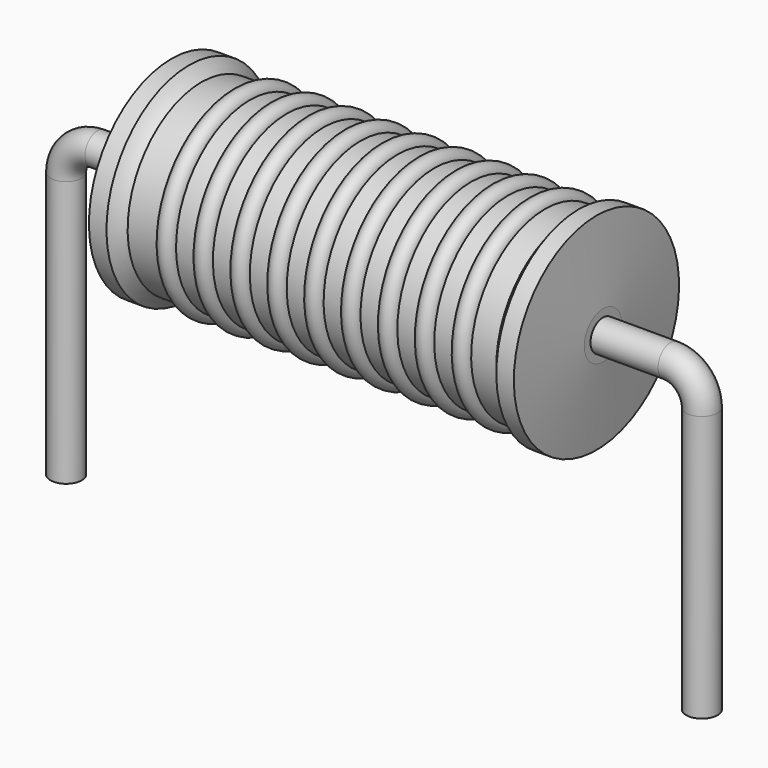
from build123d import *

# Parameters (mm, degrees)
SKETCH_R = 0.25


with BuildPart() as sweep_body:
    # Sweep: sweep along a path in Sketch001
    with BuildLine(Plane.XZ) as sweep_path:
        Line((0, -3), (0, 1.25))
        ThreePointArc((0, 1.25), (0.146443, 1.60355), (0.49999, 1.75))
        Line((0.49999, 1.75), (9.66, 1.75))
        ThreePointArc((9.66, 1.75), (10.013553, 1.603553), (10.16, 1.25))
        Line((10.16, 1.25), (10.16, -3))
    # Sketch → Sweep (sweep)
    with BuildSketch(Plane.XY.offset(-2)):
        Circle(SKETCH_R)
    sweep(path=sweep_path.line)


with BuildPart() as revolution:
    # Sketch002 → Revolution (revolve)
    with BuildSketch(Plane.XZ):
        with BuildLine():
            Line((1.685, 3.4), (1.965, 3.4))
            ThreePointArc((1.965, 3.4), (2.055554, 3.302943), (2.163, 3.225))
            Line((2.163, 3.225), (8.055, 3.225))
            ThreePointArc((8.055, 3.225), (8.134018, 3.305286), (8.195, 3.4))
            Line((8.195, 3.4), (8.475, 3.4))
            ThreePointArc((8.58, 2.125), (8.52839, 2.762573), (8.475, 3.4))
            Line((8.58, 1.75), (8.58, 2.125))
            Line((1.58, 1.75), (8.58, 1.75))
            Line((1.58, 1.75), (1.58, 2.125))
            ThreePointArc((1.685, 3.4), (1.63161, 2.762573), (1.58, 2.125))
        make_face()
    revolve(axis=Axis((1.58, 0, 1.75), (1, 0, 0)))


with BuildPart() as obj1:
    # Sketch003 → Revolution001 (revolve)
    with BuildSketch(Plane.XZ):
        with BuildLine():
            ThreePointArc((2.939474, 3.197), (2.792105, 3.344368), (2.644737, 3.197))
            Line((2.35, 3.197), (2.644737, 3.197))
            Line((2.35, 3.197), (2.35, 2.867))
            Line((2.35, 2.867), (7.95, 2.867))
            Line((7.95, 2.867), (7.95, 3.197))
            Line((7.655263, 3.197), (7.95, 3.197))
            ThreePointArc((7.655263, 3.197), (7.507895, 3.344368), (7.360526, 3.197))
            Line((7.065789, 3.197), (7.360526, 3.197))
            ThreePointArc((7.065789, 3.197), (6.918421, 3.344368), (6.771053, 3.197))
            Line((6.476316, 3.197), (6.771053, 3.197))
            ThreePointArc((6.476316, 3.197), (6.328947, 3.344368), (6.181579, 3.197))
            Line((5.886842, 3.197), (6.181579, 3.197))
            ThreePointArc((5.886842, 3.197), (5.739474, 3.344368), (5.592105, 3.197))
            Line((5.297368, 3.197), (5.592105, 3.197))
            ThreePointArc((5.297368, 3.197), (5.15, 3.344368), (5.002632, 3.197))
            Line((4.707895, 3.197), (5.002632, 3.197))
            ThreePointArc((4.707895, 3.197), (4.560526, 3.344368), (4.413158, 3.197))
            Line((4.118421, 3.197), (4.413158, 3.197))
            ThreePointArc((4.118421, 3.197), (3.971053, 3.344368), (3.823684, 3.197))
            Line((3.528947, 3.197), (3.823684, 3.197))
            ThreePointArc((3.528947, 3.197), (3.381579, 3.344368), (3.234211, 3.197))
            Line((2.939474, 3.197), (3.234211, 3.197))
        make_face()
    revolve(axis=Axis((1.755, 0, 1.75), (1, 0, 0)))

    # obj1: union Sweep body, Revolution
    add(sweep_body.part)
    add(revolution.part)


solid = obj1.part
